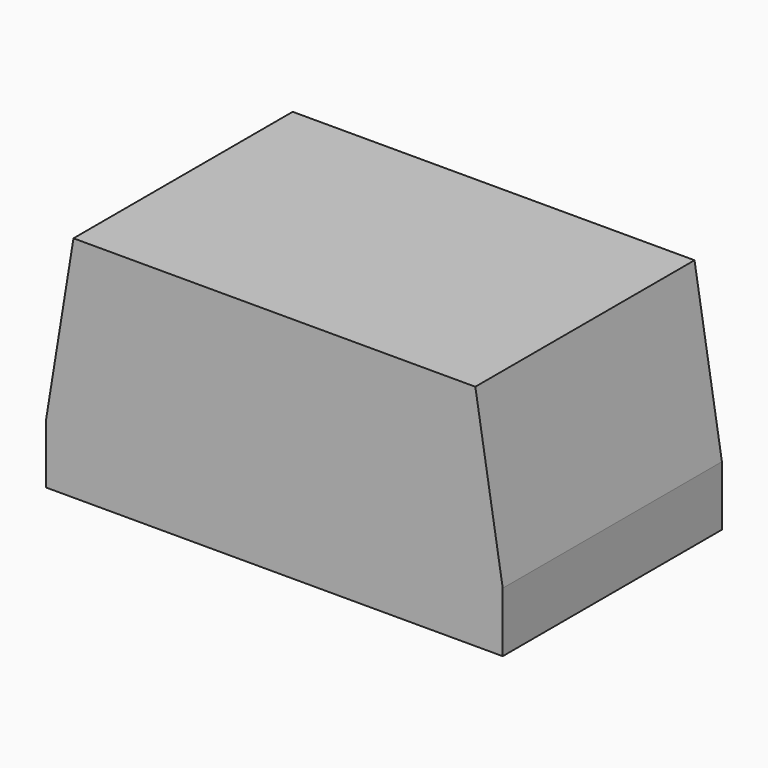
from build123d import *

# Parameters (mm, degrees)
F0_W     = 127
F0_H     = 76.2
F1_DEPTH = 0.762
F3_DEPTH = 76.2


with BuildPart() as f1:
    # F0 (on Top) → F1 (new body)
    with BuildSketch(Plane.XY):
        with Locations((-0.68152, 2.694871)):
            Rectangle(F0_W, F0_H)
    extrude(amount=F1_DEPTH)

    # F2 (on face) → F3 (join)
    with BuildSketch(Plane.XZ.offset(35.405129)):
        Polygon((-64.18152, 0.762), (62.81848, 0.762), (62.81848, 16.655238), (55.19848, 63.5), (-56.56152, 63.5), (-64.18152, 16.655238), align=None)
    extrude(amount=-F3_DEPTH)


solid = f1.part
